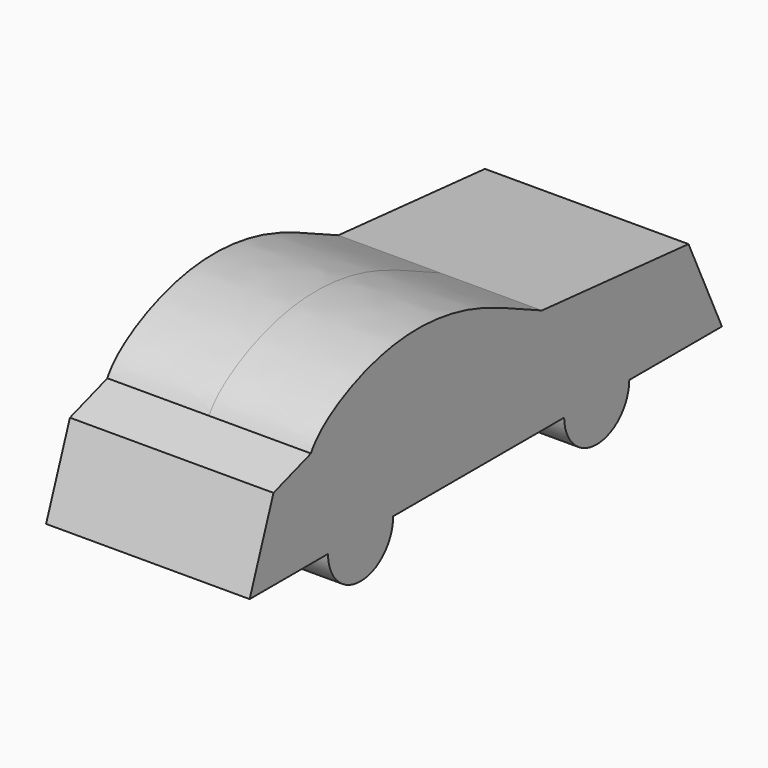
from build123d import *

# Parameters (mm, degrees)
F1_DEPTH = 12.7


with BuildPart() as f1:
    # F0 (on Right) → F1 (new body, symmetric)
    with BuildSketch(Plane.YZ):
        with BuildLine():
            Line((-12.7, 0), (13.970372458, 0))
            ThreePointArc((13.970372458, 0), (19.05, -5.0184854941), (24.129627542, 0))
            Line((24.129627542, 0), (38.5762815729, 0))
            Line((38.5762815729, 0), (33.3649730594, 11.176))
            Line((33.3649730594, 11.176), (10.5049730594, 13.176237812))
            add(Edge.make_bspline(
                [(10.5049730594, 13.176237812), (4.7512349842, 15.814831548), (-1.5675428283, 18.8947644797), (-14.8272359514, 19.6920310003), (-24.1823406712, 14.7053320677), (-25.5229681694, 12.1152512729)],
                knots=[0, 0, 0, 0, 0.3459940836, 0.6769228133, 1, 1, 1, 1], degree=3))
            Line((-25.5229681694, 12.1152512729), (-31.3649681694, 10.16))
            Line((-31.3649681694, 10.16), (-35.0837184271, 0))
            Line((-35.0837184271, 0), (-22.86, 0))
            ThreePointArc((-22.86, 0), (-17.78, -5.08), (-12.7, 0))
        make_face()
    extrude(amount=F1_DEPTH, both=True)


solid = f1.part
